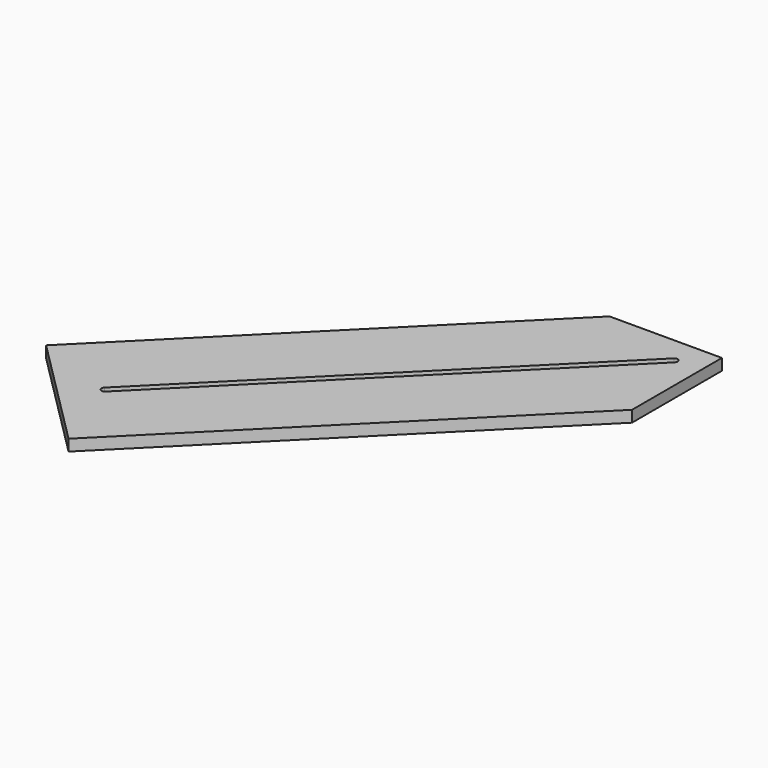
from build123d import *

# Parameters (mm, degrees)
F1_DEPTH = 5
F2_DEPTH = 2.5


with BuildPart() as f1:
    # F0 (on Top) → F1 (new body)
    with BuildSketch(Plane.XY):
        Polygon((-20, 0), (-49.497475, 0), (-187.383297, -137.885822), (-137.885822, -187.383297), (0, -49.497475), (0, 0), align=None)
        with BuildLine():
            Line((-153.088618, -148.845977), (-13.788582, -9.545942))
            ThreePointArc((-13.788582, -9.545942), (-9.545942, -9.545942), (-9.545942, -13.788582))
            Line((-9.545942, -13.788582), (-148.845977, -153.088618))
            ThreePointArc((-148.845977, -153.088618), (-153.088618, -153.088618), (-153.088618, -148.845977))
        make_face(mode=Mode.SUBTRACT)
        with BuildLine():
            ThreePointArc((-9.545942, -13.788582), (-9.545942, -9.545942), (-13.788582, -9.545942))
            Line((-13.788582, -9.545942), (-153.088618, -148.845977))
            ThreePointArc((-153.088618, -148.845977), (-153.088618, -153.088618), (-148.845977, -153.088618))
            Line((-148.845977, -153.088618), (-9.545942, -13.788582))
        make_face()
        with BuildLine():
            Line((-10.606602, -12.727922), (-149.906638, -152.027958))
            ThreePointArc((-149.906638, -152.027958), (-152.027958, -152.027958), (-152.027958, -149.906638))
            Line((-152.027958, -149.906638), (-12.727922, -10.606602))
            ThreePointArc((-12.727922, -10.606602), (-10.606602, -10.606602), (-10.606602, -12.727922))
        make_face(mode=Mode.SUBTRACT)
    extrude(amount=F1_DEPTH)

    # F0 (on Top) → F2 (cut)
    with BuildSketch(Plane.XY):
        with BuildLine():
            ThreePointArc((-9.545942, -13.788582), (-9.545942, -9.545942), (-13.788582, -9.545942))
            Line((-13.788582, -9.545942), (-153.088618, -148.845977))
            ThreePointArc((-153.088618, -148.845977), (-153.088618, -153.088618), (-148.845977, -153.088618))
            Line((-148.845977, -153.088618), (-9.545942, -13.788582))
        make_face()
        with BuildLine():
            Line((-10.606602, -12.727922), (-149.906638, -152.027958))
            ThreePointArc((-149.906638, -152.027958), (-152.027958, -152.027958), (-152.027958, -149.906638))
            Line((-152.027958, -149.906638), (-12.727922, -10.606602))
            ThreePointArc((-12.727922, -10.606602), (-10.606602, -10.606602), (-10.606602, -12.727922))
        make_face(mode=Mode.SUBTRACT)
    extrude(amount=F2_DEPTH, mode=Mode.SUBTRACT)


solid = f1.part
